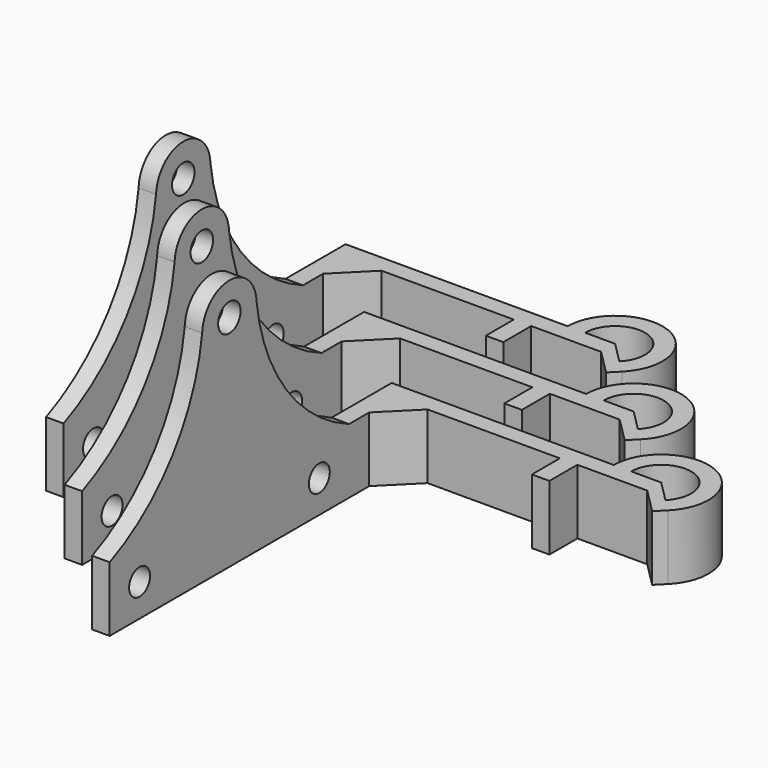
from build123d import *

# Parameters (mm, degrees)
F1_DEPTH = 13
F2_R     = 2.810606
F3_DEPTH = 3.5
F2_R_2   = 2.625
F4_DEPTH = 3.5


with BuildPart() as f1:
    # F0 (on Top) → F1 (new body)
    with BuildSketch(Plane.XY):
        with BuildLine():
            Line((-36.5, 56.167054), (-36.5, -18.832946))
            Line((-36.5, -18.832946), (-33, -18.832946))
            Line((-33, -18.832946), (-33, 46.167054))
            Line((-33, 46.167054), (-26.5, 52.667054))
            Line((-26.5, 52.667054), (0, 52.667054))
            Line((0, 52.667054), (0, 45.667054))
            Line((0, 45.667054), (3.5, 45.667054))
            Line((3.5, 45.667054), (3.5, 52.667054))
            Line((3.5, 52.667054), (17.5, 52.667054))
            Line((17.5, 52.667054), (22.467514, 47.699539))
            Line((22.467514, 47.699539), (24.217514, 49.449539))
            ThreePointArc((24.217514, 49.449539), (21.135493, 64.943909), (8, 56.167054))
            Line((8, 56.167054), (-36.5, 56.167054))
        make_face()
        with BuildLine():
            Line((21.742641, 51.924413), (17.5, 56.167054))
            Line((17.5, 56.167054), (11.5, 56.167054))
            ThreePointArc((11.5, 56.167054), (19.796101, 61.710331), (21.742641, 51.924413))
        make_face(mode=Mode.SUBTRACT)
    extrude(amount=F1_DEPTH)

    # F2 (on face) → F3 (join)
    with BuildSketch(Plane(origin=(-36.5, 0, 0), x_dir=(0, -1, 0), z_dir=(-1, 0, 0))):
        with BuildLine():
            ThreePointArc((-17.954164, 44), (-25.420772, 25.423911), (-41.120063, 13))
            Line((-41.120063, 13), (18.832946, 13))
            ThreePointArc((18.832946, 13), (3.133655, 25.423911), (-4.332953, 44))
            ThreePointArc((-4.332953, 44), (-11.143559, 50.547624), (-17.954164, 44))
        make_face()
        with Locations((-11.143559, 44)):
            Circle(F2_R, mode=Mode.SUBTRACT)
    extrude(amount=-F3_DEPTH)

    # F2 (on face) → F4 (cut)
    with BuildSketch(Plane(origin=(-36.5, 0, 0), x_dir=(0, -1, 0), z_dir=(-1, 0, 0))):
        with Locations((-33.667054, 6.5)):
            Circle(F2_R_2)
        with Locations((11.332946, 6.5)):
            Circle(F2_R_2)
    extrude(amount=-F4_DEPTH, mode=Mode.SUBTRACT)


with BuildPart() as f5_1:
    # F5: copy of F1
    add(f1.part.moved(Location((16.6, -16.1, 0))))


with BuildPart() as f6_1:
    # F6: copy of F1
    add(f1.part.moved(Location((35, -32.2, 0))))


solid = Compound([f1.part, f5_1.part, f6_1.part])
